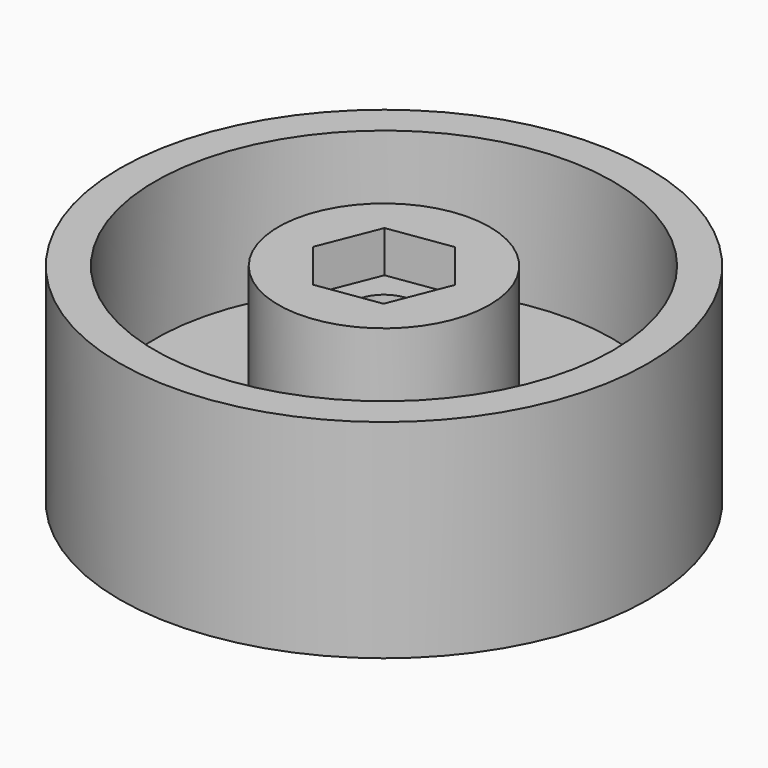
from build123d import *

# Parameters (mm, degrees)
F0_R     = 19.05
F0_R_2   = 16.51
F0_R_3   = 7.62
F0_R_4   = 4.8407005088
F1_DEPTH = 5
F2_START = 5
F0_R_5   = 2.25
F2_DEPTH = 10
F3_START = 12
F3_DEPTH = 8


with BuildPart() as f1:
    # F0 (on Top) → F1 (new body)
    with BuildSketch(Plane.XY):
        Circle(F0_R)
        Circle(F0_R_2, mode=Mode.SUBTRACT)
        Circle(F0_R_2)
        Circle(F0_R_3, mode=Mode.SUBTRACT)
        Circle(F0_R_3)
        Circle(F0_R_4, mode=Mode.SUBTRACT)
    extrude(amount=F1_DEPTH)

    # F0 (on Top) → F2 (join)
    with BuildSketch(Plane.XY.offset(F2_START)):
        Circle(F0_R)
        Circle(F0_R_2, mode=Mode.SUBTRACT)
        Circle(F0_R_3)
        Circle(F0_R_4, mode=Mode.SUBTRACT)
        Circle(F0_R_4)
        Polygon((-2.865183893, 3.6227137055), (1.7047701531, 4.2926788907), (4.5699540462, 0.6699651851), (2.865183893, -3.6227137055), (-1.7047701531, -4.2926788907), (-4.5699540462, -0.6699651851), align=None, mode=Mode.SUBTRACT)
        Polygon((4.5699540462, 0.6699651851), (1.7047701531, 4.2926788907), (-2.865183893, 3.6227137055), (-4.5699540462, -0.6699651851), (-1.7047701531, -4.2926788907), (2.865183893, -3.6227137055), align=None)
        Circle(F0_R_5, mode=Mode.SUBTRACT)
    extrude(amount=F2_DEPTH)

    # F0 (on Top) → F3 (cut)
    with BuildSketch(Plane.XY.offset(F3_START)):
        Polygon((4.5699540462, 0.6699651851), (1.7047701531, 4.2926788907), (-2.865183893, 3.6227137055), (-4.5699540462, -0.6699651851), (-1.7047701531, -4.2926788907), (2.865183893, -3.6227137055), align=None)
        Circle(F0_R_5, mode=Mode.SUBTRACT)
    extrude(amount=F3_DEPTH, mode=Mode.SUBTRACT)


solid = f1.part
